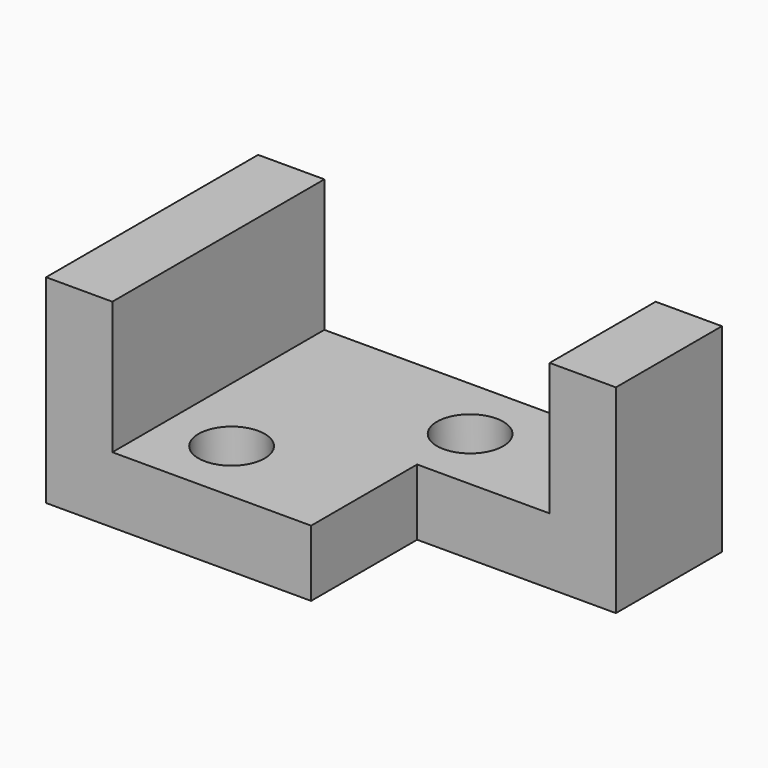
from build123d import *

# Parameters (mm, degrees)
F0_W      = 88.9
F0_H      = 38.1
F1_DEPTH  = 50.8
F2_W      = 63.5
F2_H      = 19.05
F3_DEPTH  = 50.801
F4_W      = 38.1
F4_H      = 25.4
F5_DEPTH  = 38.101
F6_W      = 25.4
F6_H      = 25.4
F7_DEPTH  = 19.051
F8_R      = 6.35
F9_DEPTH  = 19.051
F10_R     = 6.35
F11_DEPTH = 19.051
F12_W     = 38.1
F12_H     = 6.35
F13_DEPTH = 50.801
F14_W     = 25.4
F14_H     = 6.35
F15_DEPTH = 25.401


with BuildPart() as f1:
    # F0 (on Front) → F1 (new body)
    with BuildSketch(Plane.XZ):
        Rectangle(F0_W, F0_H)
    extrude(amount=F1_DEPTH)

    # F2 (on face) → F3 (cut, through all)
    with BuildSketch(Plane.XZ.offset(50.8)):
        with Locations((0, 9.525)):
            Rectangle(F2_W, F2_H)
    extrude(amount=-F3_DEPTH, mode=Mode.SUBTRACT)

    # F4 (on face) → F5 (cut, through all)
    with BuildSketch(Plane.XY.offset(19.05)):
        with Locations((25.4, -38.1)):
            Rectangle(F4_W, F4_H)
    extrude(amount=-F5_DEPTH, mode=Mode.SUBTRACT)

    # F6 (on face) → F7 (cut, through all)
    with BuildSketch(Plane.XY):
        with Locations((19.05, -38.1)):
            Rectangle(F6_W, F6_H)
    extrude(amount=-F7_DEPTH, mode=Mode.SUBTRACT)

    # F8 (on face) → F9 (cut, through all)
    with BuildSketch(Plane.XY):
        with Locations((-19.05, -38.1)):
            Circle(F8_R)
    extrude(amount=-F9_DEPTH, mode=Mode.SUBTRACT)

    # F10 (on face) → F11 (cut, through all)
    with BuildSketch(Plane.XY):
        with Locations((6.35, -12.7)):
            Circle(F10_R)
    extrude(amount=-F11_DEPTH, mode=Mode.SUBTRACT)

    # F12 (on face) → F13 (cut, through all)
    with BuildSketch(Plane.XZ.offset(50.8)):
        with Locations((-12.7, -3.175)):
            Rectangle(F12_W, F12_H)
    extrude(amount=-F13_DEPTH, mode=Mode.SUBTRACT)

    # F14 (on face) → F15 (cut, through all)
    with BuildSketch(Plane.XZ.offset(25.4)):
        with Locations((19.05, -3.175)):
            Rectangle(F14_W, F14_H)
    extrude(amount=-F15_DEPTH, mode=Mode.SUBTRACT)


solid = f1.part
